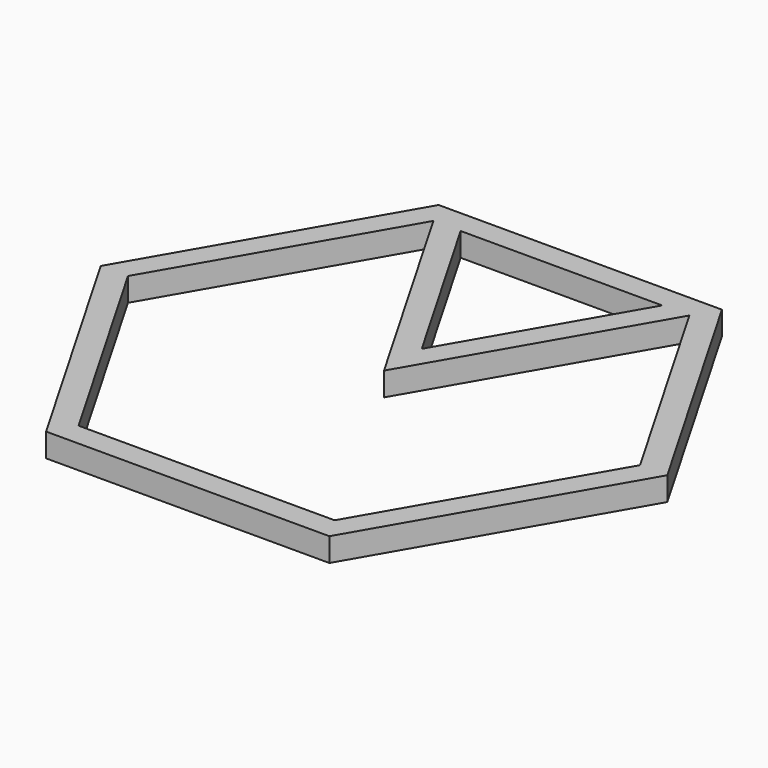
from build123d import *

# Parameters (mm, degrees)
F1_DEPTH = 25.4


with BuildPart() as f1:
    # F0 (on Top) → F1 (new body)
    with BuildSketch(Plane.XY):
        Polygon((152.4, 263.964543), (-152.4, 263.964543), (-304.8, 0), (-152.4, -263.964543), (152.4, -263.964543), (304.8, 0), align=None)
        Polygon((-137.735303, -238.564543), (-275.470606, 0), (-137.735303, 238.564543), (0, 0), (137.735303, 238.564543), (275.470606, 0), (137.735303, -238.564543), align=None, mode=Mode.SUBTRACT)
        Polygon((0, 50.8), (-108.405909, 238.564543), (108.405909, 238.564543), align=None, mode=Mode.SUBTRACT)
    extrude(amount=F1_DEPTH)


solid = f1.part
